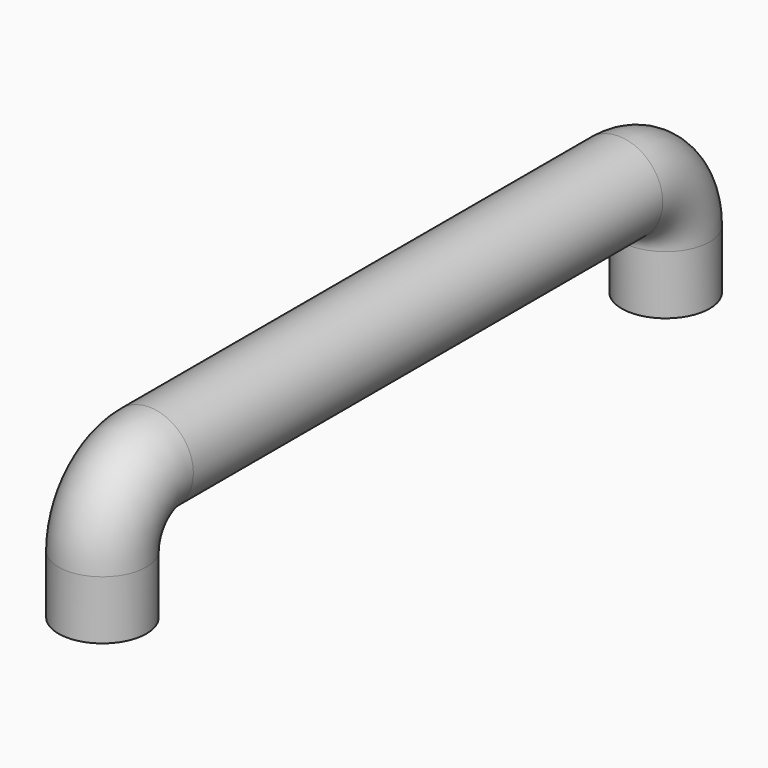
from build123d import *

# Parameters (mm, degrees)
F1_R = 4.7625


with BuildPart() as f2:
    # F2: sweep along a path in F0
    with BuildLine(Plane.YZ) as f2_path:
        Line((0, 0), (0, 6.35))
        ThreePointArc((0, 6.35), (1.8598719395, 10.8401280605), (6.35, 12.7))
        Line((6.35, 12.7), (69.85, 12.7))
        ThreePointArc((69.85, 12.7), (74.3401280605, 10.8401280605), (76.2, 6.35))
        Line((76.2, 6.35), (76.2, 0))
    # F1 (on Top) → F2 (sweep)
    with BuildSketch(Plane.XY):
        Circle(F1_R)
    sweep(path=f2_path.line)


solid = f2.part
